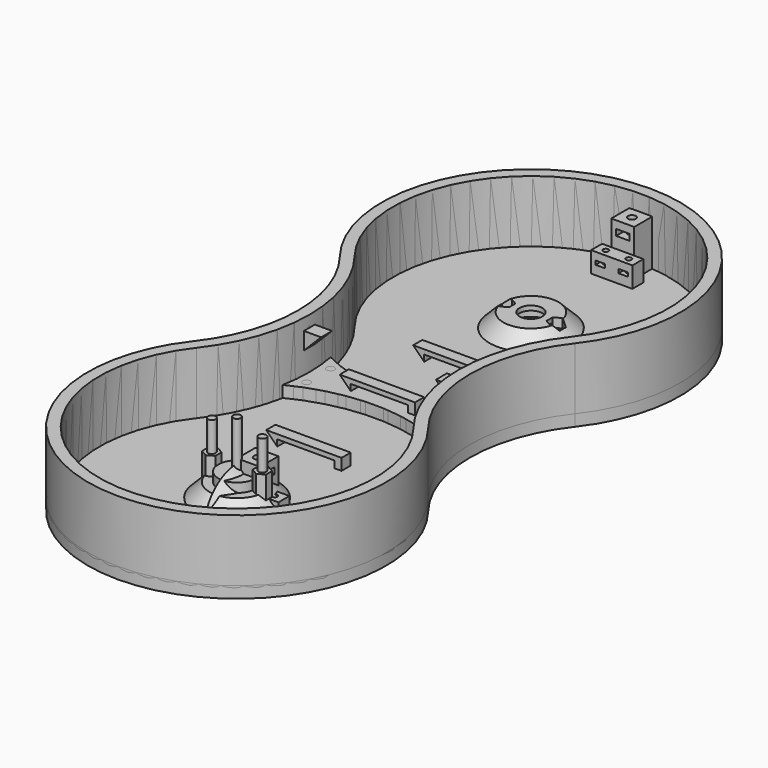
from build123d import *

# Parameters (mm, degrees)
CYLINDER_R               = 2.95
CYLINDER_DEPTH           = 7
CYLINDER001_R            = 1.7
CYLINDER001_DEPTH        = 30
PAD002_DEPTH             = 2.7
PRISM_DEPTH              = 12
CYLINDER1003_R           = 8.2
CYLINDER1003_DEPTH       = 15
PAD013_DEPTH             = 32
THICKNESS001_T           = -5
PAD015_DEPTH             = 5
PAD017_DEPTH             = 6
CLONE118_PLACEMENT_ANGLE = 180
BOX250_W                 = 10
BOX250_H                 = 10
BOX250_DEPTH             = 20
CLONE139_PLACEMENT_ANGLE = 30
BOX251_W                 = 30.6
BOX251_H                 = 7
BOX251_DEPTH             = 4
CYLINDER1015_R           = 5
CYLINDER1015_DEPTH       = 10
CLONE140_PLACEMENT_ANGLE = 30
PAD020_DEPTH             = 2.5
CYLINDER1061_R           = 2.1
CYLINDER1061_DEPTH       = 7
CYLINDER1062_R           = 1.2
CYLINDER1062_DEPTH       = 30
PAD048_DEPTH             = 1.7
CLONE421_ROLL_ANGLE      = 180
CLONE421_PLACEMENT_ANGLE = 90
CLONE420_PLACEMENT_ANGLE = -90
CLONE419_PLACEMENT_ANGLE = -90
CLONE422_ROLL_ANGLE      = 180
CLONE422_PLACEMENT_ANGLE = 90
BOX_W                    = 18
BOX_H                    = 6
BOX_DEPTH                = 9
CLONE424_PLACEMENT_ANGLE = 180
CLONE154_PLACEMENT_ANGLE = 90
CLONE155_PITCH_ANGLE     = 90
CLONE155_PLACEMENT_ANGLE = 90
CLONE153_PITCH_ANGLE     = -90
CLONE149_ROLL_ANGLE      = -90
CLONE152_PITCH_ANGLE     = -90
CLONE148_PLACEMENT_ANGLE = -90
FILLET_R                 = 5


with BuildPart() as m3bolthead:
    # Cylinder → Cylinder (new body)
    with BuildSketch(Plane.XY):
        Circle(CYLINDER_R)
    extrude(amount=CYLINDER_DEPTH)


with BuildPart() as m3bolt:
    # Cylinder001 → Cylinder001 (new body)
    with BuildSketch(Plane.XY.offset(6)):
        Circle(CYLINDER001_R)
    extrude(amount=CYLINDER001_DEPTH)

    # Fusion: union M3BoltHead
    add(m3bolthead.part)


with BuildPart() as m3nuthousing:
    # Sketch003 → Pad002 (new body)
    with BuildSketch(Plane.XY):
        Polygon((0, 0), (1.674316, 2.9), (21.674316, 2.9), (21.674316, -2.9), (1.674316, -2.9), align=None)
    extrude(amount=PAD002_DEPTH)


with BuildPart() as m3nut:
    # Prism → Prism (new body)
    with BuildSketch(Plane.XY):
        Polygon((3.35, 0), (1.675, 2.901185), (-1.675, 2.901185), (-3.35, 0), (-1.675, -2.901185), (1.675, -2.901185), align=None)
    extrude(amount=PRISM_DEPTH)


with BuildPart() as obj1:
    # Sketch016 → Revolution003 (revolve)
    with BuildSketch(Plane.XY):
        Polygon((0, 0), (0, 18), (6, 12), (6, 0), align=None)
    revolve(axis=Axis((0, 0, 0), (1, 0, 0)))


with BuildPart() as obj2:
    # Cylinder1003 → Cylinder1003 (new body)
    with BuildSketch(Plane.XY):
        Circle(CYLINDER1003_R)
    extrude(amount=CYLINDER1003_DEPTH)


with BuildPart() as obj3:
    # Sketch020 → Pad013 (new body)
    with BuildSketch(Plane.XY):
        with BuildLine():
            ThreePointArc((-51.234754, 40), (1e-06, -65), (51.234753, 40.000001))
            ThreePointArc((51.234754, 120), (37.469508, 80), (51.234753, 40.000001))
            ThreePointArc((51.234754, 120), (0, 225), (-51.234754, 120.000001))
            ThreePointArc((-51.234754, 40), (-37.469508, 80), (-51.234754, 120.000001))
        make_face()
    extrude(amount=PAD013_DEPTH)

    # Thickness001
    thickness001_openings = [obj3.faces().sort_by_distance(p)[0] for p in [
        (0, 80, 32),
    ]]
    offset(amount=THICKNESS001_T, openings=thickness001_openings)


with BuildPart() as obj4:
    # Sketch023 → Pad015 (new body)
    with BuildSketch(Plane.XY.offset(5)):
        with BuildLine():
            ThreePointArc((35, 66.332496), (0, 75), (-35, 66.332496))
            ThreePointArc((-35, 66.332496), (-33.840893, 80), (-35, 93.667504))
            ThreePointArc((-35, 93.667504), (0, 85), (35, 93.667504))
            ThreePointArc((35, 93.667504), (33.840893, 80), (35, 66.332496))
        make_face()
    extrude(amount=PAD015_DEPTH)


with BuildPart() as obj5:
    # Sketch025 → Pad017 (new body)
    with BuildSketch(Plane.XY):
        Polygon((0, 0), (0, 10), (10, 0), align=None)
    extrude(amount=PAD017_DEPTH)


with BuildPart() as clone_of_m3nuthousing009:
    # Clone119 base: copy of M3NutHousing
    add(m3nuthousing.part)


with BuildPart() as clone_of_m3nuthousing009_1:
    # Clone119 placement: moved
    add(clone_of_m3nuthousing009.part.moved(Location((1.5, 5, 14))))


with BuildPart() as fusion051:
    # Clone118 base: copy of M3Bolt
    add(m3bolt.part)


with BuildPart() as fusion051_1:
    # Clone118 placement: moved
    add(fusion051.part.moved(Location((5, 5, 40))).rotate(Axis((5, 5, 40), (1, 0, 0)), CLONE118_PLACEMENT_ANGLE))

    # Fusion051: union Clone of M3NutHousing009
    add(clone_of_m3nuthousing009_1.part)


with BuildPart() as obj6:
    # Box250 → Box250 (new body)
    with BuildSketch(Plane.XY):
        with Locations((5, 5)):
            Rectangle(BOX250_W, BOX250_H)
    extrude(amount=BOX250_DEPTH)

    # Cut040: cut Fusion051
    add(fusion051_1.part, mode=Mode.SUBTRACT)


with BuildPart() as clone_of_m3nut005:
    # Clone139 base: copy of M3Nut
    add(m3nut.part)


with BuildPart() as clone_of_m3nut005_1:
    # Clone139 placement: moved
    add(clone_of_m3nut005.part.moved(Location((11, 0, 7))).rotate(Axis((11, 0, 7), (0, 0, 1)), CLONE139_PLACEMENT_ANGLE))


with BuildPart() as cube015:
    # Box251 → Box251 (new body)
    with BuildSketch(Plane(origin=(-15.3, -3.5, 0), x_dir=(1, 0, 0), z_dir=(0, 0, 1))):
        with Locations((15.3, 3.5)):
            Rectangle(BOX251_W, BOX251_H)
    extrude(amount=BOX251_DEPTH)


with BuildPart() as clone_of_m3bolt039:
    # Clone137 base: copy of M3Bolt
    add(m3bolt.part)


with BuildPart() as clone_of_m3bolt039_1:
    # Clone137 placement: moved
    add(clone_of_m3bolt039.part.moved(Location((11, 0, -4))))


with BuildPart() as clone_of_m3bolt040:
    # Clone138 base: copy of M3Bolt
    add(m3bolt.part)


with BuildPart() as clone_of_m3bolt040_1:
    # Clone138 placement: moved
    add(clone_of_m3bolt040.part.moved(Location((-11, 0, -4))))


with BuildPart() as cylinder021:
    # Cylinder1015 → Cylinder1015 (new body)
    with BuildSketch(Plane.XY.offset(4)):
        Circle(CYLINDER1015_R)
    extrude(amount=CYLINDER1015_DEPTH)


with BuildPart() as obj7:
    # Clone136 base: copy of obj2
    add(obj2.part)


with BuildPart() as obj7_1:
    # Clone136 placement: moved
    add(obj7.part.moved(Location((0, 0, -6))))


with BuildPart() as obj8:
    # Clone140 base: copy of M3Nut
    add(m3nut.part)


with BuildPart() as obj8_1:
    # Clone140 placement: moved
    add(obj8.part.moved(Location((-11, 0, 7))).rotate(Axis((-11, 0, 7), (0, 0, 1)), CLONE140_PLACEMENT_ANGLE))

    # Fusion062: union Clone of M3Nut005, Cube015, Clone of M3Bolt039, Clone of M3Bolt040, Cylinder021, obj7
    add(clone_of_m3nut005_1.part)
    add(cube015.part)
    add(clone_of_m3bolt039_1.part)
    add(clone_of_m3bolt040_1.part)
    add(cylinder021.part)
    add(obj7_1.part)


with BuildPart() as obj9:
    # Sketch028 → Pad020 (new body, symmetric)
    with BuildSketch(Plane.XZ):
        Polygon((12.5, 0), (12.5, 3), (-12.5, 3), (-12.5, 0.2), (-17.3, 5), (15.5, 5), (15.5, 0), align=None)
    extrude(amount=PAD020_DEPTH, both=True)


with BuildPart() as m2bolthead:
    # Cylinder1061 → Cylinder1061 (new body)
    with BuildSketch(Plane.XY):
        Circle(CYLINDER1061_R)
    extrude(amount=CYLINDER1061_DEPTH)


with BuildPart() as m2bolt:
    # Cylinder1062 → Cylinder1062 (new body)
    with BuildSketch(Plane.XY.offset(6)):
        Circle(CYLINDER1062_R)
    extrude(amount=CYLINDER1062_DEPTH)

    # Fusion158: union M2BoltHead
    add(m2bolthead.part)


with BuildPart() as m2nuthousing:
    # Sketch079 → Pad048 (new body)
    with BuildSketch(Plane.XY):
        Polygon((0, 0), (1.183568, 2.05), (21.183568, 2.05), (21.183568, -2.05), (1.183568, -2.05), align=None)
    extrude(amount=PAD048_DEPTH)


with BuildPart() as clone421:
    # Clone421 base: copy of M2Bolt
    add(m2bolt.part)


with BuildPart() as clone421_1:
    # Clone421 roll: moved
    add(clone421.part.rotate(Axis((0, 0, 0), (1, 0, 0)), CLONE421_ROLL_ANGLE))


with BuildPart() as clone421_2:
    # Clone421 placement: moved
    add(clone421_1.part.moved(Location((4, 3, 35))).rotate(Axis((4, 3, 35), (0, 0, 1)), CLONE421_PLACEMENT_ANGLE))


with BuildPart() as clone_of_m2nuthousing001:
    # Clone420 base: copy of M2NutHousing
    add(m2nuthousing.part)


with BuildPart() as clone_of_m2nuthousing001_1:
    # Clone420 placement: moved
    add(clone_of_m2nuthousing001.part.moved(Location((14, 5.7, 4))).rotate(Axis((14, 5.7, 4), (0, 0, 1)), CLONE420_PLACEMENT_ANGLE))


with BuildPart() as clone_of_m2nuthousing:
    # Clone419 base: copy of M2NutHousing
    add(m2nuthousing.part)


with BuildPart() as clone_of_m2nuthousing_1:
    # Clone419 placement: moved
    add(clone_of_m2nuthousing.part.moved(Location((4, 5.7, 4))).rotate(Axis((4, 5.7, 4), (0, 0, 1)), CLONE419_PLACEMENT_ANGLE))


with BuildPart() as fusion160:
    # Clone422 base: copy of M2Bolt
    add(m2bolt.part)


with BuildPart() as fusion160_1:
    # Clone422 roll: moved
    add(fusion160.part.rotate(Axis((0, 0, 0), (1, 0, 0)), CLONE422_ROLL_ANGLE))


with BuildPart() as fusion160_2:
    # Clone422 placement: moved
    add(fusion160_1.part.moved(Location((14, 3, 35))).rotate(Axis((14, 3, 35), (0, 0, 1)), CLONE422_PLACEMENT_ANGLE))

    # Fusion160: union Clone421, Clone of M2NutHousing001, Clone of M2NutHousing
    add(clone421_2.part)
    add(clone_of_m2nuthousing001_1.part)
    add(clone_of_m2nuthousing_1.part)


with BuildPart() as obj10:
    # Box → Box (new body)
    with BuildSketch(Plane.XY):
        with Locations((9, 3)):
            Rectangle(BOX_W, BOX_H)
    extrude(amount=BOX_DEPTH)

    # Cut141: cut Fusion160
    add(fusion160_2.part, mode=Mode.SUBTRACT)


with BuildPart() as obj11:
    # Clone424 base: copy of obj10
    add(obj10.part)


with BuildPart() as obj11_1:
    # Clone424 placement: moved
    add(obj11.part.moved(Location((9, -44, 5))).rotate(Axis((9, -44, 5), (0, 0, 1)), CLONE424_PLACEMENT_ANGLE))


with BuildPart() as obj12:
    # Clone423 base: copy of obj10
    add(obj10.part)


with BuildPart() as obj12_1:
    # Clone423 placement: moved
    add(obj12.part.moved(Location((-9, 204, 5))))


with BuildPart() as clone_of_m3bolt043:
    # Clone163 base: copy of M3Bolt
    add(m3bolt.part)


with BuildPart() as clone_of_m3bolt043_1:
    # Clone163 placement: moved
    add(clone_of_m3bolt043.part.moved(Location((-28.5, 86.5, -4.1))))


with BuildPart() as clone_of_m3bolt044:
    # Clone164 base: copy of M3Bolt
    add(m3bolt.part)


with BuildPart() as clone_of_m3bolt044_1:
    # Clone164 placement: moved
    add(clone_of_m3bolt044.part.moved(Location((-28.5, 73.5, -4.1))))


with BuildPart() as clone_of_m3bolt042:
    # Clone162 base: copy of M3Bolt
    add(m3bolt.part)


with BuildPart() as clone_of_m3bolt042_1:
    # Clone162 placement: moved
    add(clone_of_m3bolt042.part.moved(Location((28.5, 86.5, -4.1))))


with BuildPart() as clone_of_m3bolt041:
    # Clone161 base: copy of M3Bolt
    add(m3bolt.part)


with BuildPart() as clone_of_m3bolt041_1:
    # Clone161 placement: moved
    add(clone_of_m3bolt041.part.moved(Location((28.5, 73.5, -4.1))))


with BuildPart() as obj13:
    # Clone160 base: copy of obj8
    add(obj8_1.part)


with BuildPart() as obj13_1:
    # Clone160 placement: moved
    add(obj13.part.moved(Location((0, 160, 0))))


with BuildPart() as fusion065:
    # Clone159 base: copy of obj8
    add(obj8_1.part)

    # Fusion065: union Clone of M3Bolt043, Clone of M3Bolt044, Clone of M3Bolt042, Clone of M3Bolt041, obj13
    add(clone_of_m3bolt043_1.part)
    add(clone_of_m3bolt044_1.part)
    add(clone_of_m3bolt042_1.part)
    add(clone_of_m3bolt041_1.part)
    add(obj13_1.part)


with BuildPart() as obj14:
    # Clone154 base: copy of obj6
    add(obj6.part)


with BuildPart() as obj14_1:
    # Clone154 placement: moved
    add(obj14.part.moved(Location((5.000001, -60, 5))).rotate(Axis((5.000001, -60, 5), (0, 0, 1)), CLONE154_PLACEMENT_ANGLE))


with BuildPart() as obj15:
    # Clone150 base: copy of obj4
    add(obj4.part)


with BuildPart() as obj16:
    # Clone155 base: copy of obj5
    add(obj5.part)


with BuildPart() as obj16_1:
    # Clone155 pitch: moved
    add(obj16.part.rotate(Axis((0, 0, 0), (0, 1, 0)), CLONE155_PITCH_ANGLE))


with BuildPart() as obj16_2:
    # Clone155 placement: moved
    add(obj16_1.part.moved(Location((35, 77, 27))).rotate(Axis((35, 77, 27), (0, 0, 1)), CLONE155_PLACEMENT_ANGLE))


with BuildPart() as obj17:
    # Clone153 base: copy of obj1
    add(obj1.part)


with BuildPart() as obj17_1:
    # Clone153 pitch: moved
    add(obj17.part.rotate(Axis((0, 0, 0), (0, 1, 0)), CLONE153_PITCH_ANGLE))


with BuildPart() as obj17_2:
    # Clone153 placement: moved
    add(obj17_1.part.moved(Location((0, 160, 5))))


with BuildPart() as obj18:
    # Clone149 base: copy of obj5
    add(obj5.part)


with BuildPart() as obj18_1:
    # Clone149 roll: moved
    add(obj18.part.rotate(Axis((0, 0, 0), (1, 0, 0)), CLONE149_ROLL_ANGLE))


with BuildPart() as obj18_2:
    # Clone149 placement: moved
    add(obj18_1.part.moved(Location((-35, 77, 27))))


with BuildPart() as obj19:
    # Clone152 base: copy of obj1
    add(obj1.part)


with BuildPart() as obj19_1:
    # Clone152 pitch: moved
    add(obj19.part.rotate(Axis((0, 0, 0), (0, 1, 0)), CLONE152_PITCH_ANGLE))


with BuildPart() as obj19_2:
    # Clone152 placement: moved
    add(obj19_1.part.moved(Location((0, 0, 5))))


with BuildPart() as obj20:
    # Clone156 base: copy of obj9
    add(obj9.part)


with BuildPart() as obj20_1:
    # Clone156 placement: moved
    add(obj20.part.moved(Location((0, 80, 10))))


with BuildPart() as obj21:
    # Clone157 base: copy of obj9
    add(obj9.part)


with BuildPart() as obj21_1:
    # Clone157 placement: moved
    add(obj21.part.moved(Location((0, 40, 5))))


with BuildPart() as obj22:
    # Clone148 base: copy of obj6
    add(obj6.part)


with BuildPart() as obj22_1:
    # Clone148 placement: moved
    add(obj22.part.moved(Location((-5, 220, 5))).rotate(Axis((-5, 220, 5), (0, 0, 1)), CLONE148_PLACEMENT_ANGLE))


with BuildPart() as obj23:
    # Clone151 base: copy of obj3
    add(obj3.part)


with BuildPart() as obj24:
    # Clone158 base: copy of obj9
    add(obj9.part)


with BuildPart() as obj24_1:
    # Clone158 placement: moved
    add(obj24.part.moved(Location((0, 120, 5))))

    # Fusion064: union obj14, obj15, obj16, obj17, obj18, obj19, obj20, obj21, obj22, obj23
    add(obj14_1.part)
    add(obj15.part)
    add(obj16_2.part)
    add(obj17_2.part)
    add(obj18_2.part)
    add(obj19_2.part)
    add(obj20_1.part)
    add(obj21_1.part)
    add(obj22_1.part)
    add(obj23.part)

    # Cut057: cut Fusion065
    add(fusion065.part, mode=Mode.SUBTRACT)

    # Fusion161: union obj11, obj12
    add(obj11_1.part)
    add(obj12_1.part)

    # Fillet
    fillet_edges = [obj24_1.edges().sort_by_distance(p)[0] for p in [
        (1e-06, -65, 0),
        (-37.469508, 80, 0),
        (37.469508, 80, 0),
        (0, 225, 0),
    ]]
    fillet(fillet_edges, radius=FILLET_R)


solid = Compound([m3bolt.part, m3nuthousing.part, m3nut.part, obj1.part, obj2.part, obj3.part, obj4.part, obj5.part, obj6.part, obj8_1.part, obj9.part, m2bolt.part, m2nuthousing.part, obj10.part, obj24_1.part])
